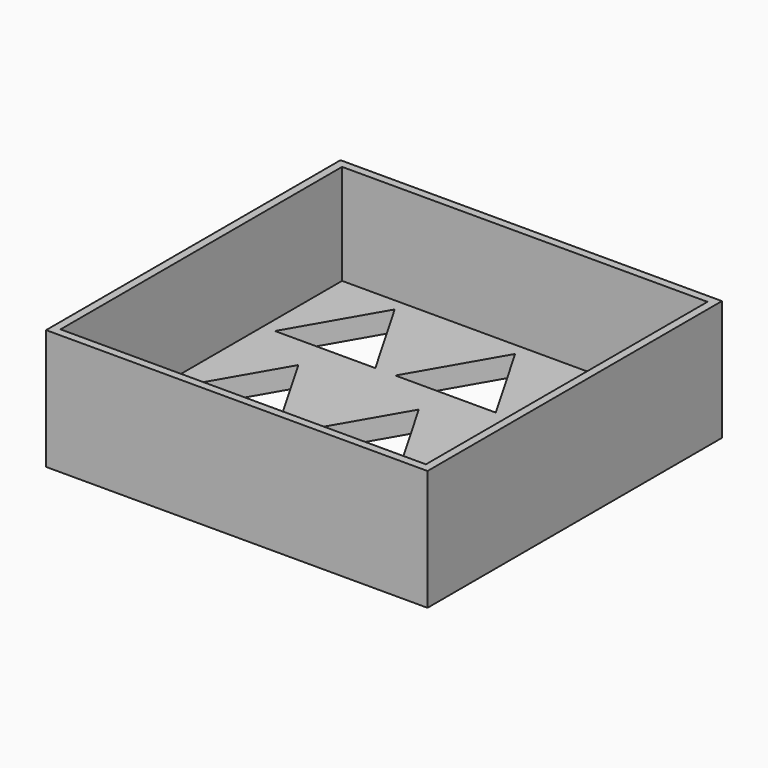
from build123d import *

# Parameters (mm, degrees)
F0_W     = 95
F0_H     = 91.650635
F1_DEPTH = 5
F2_W     = 95
F2_H     = 91.650635
F2_W_2   = 91
F2_H_2   = 87.650635
F3_DEPTH = 25


with BuildPart() as f1:
    # F0 (on Top) → F1 (new body)
    with BuildSketch(Plane.XY):
        with Locations((17.5, 40.825317)):
            Rectangle(F0_W, F0_H)
        Polygon((-25, 0), (-12.5, 21.650635), (0, 0), align=None, mode=Mode.SUBTRACT)
        Polygon((30, 0), (5, 0), (17.5, 21.650635), align=None, mode=Mode.SUBTRACT)
        Polygon((60, 0), (35, 0), (47.5, 21.650635), align=None, mode=Mode.SUBTRACT)
        Polygon((30, 30), (5, 30), (17.5, 51.650635), align=None, mode=Mode.SUBTRACT)
        Polygon((60, 30), (35, 30), (47.5, 51.650635), align=None, mode=Mode.SUBTRACT)
        Polygon((0, 30), (-25, 30), (-12.5, 51.650635), align=None, mode=Mode.SUBTRACT)
        Polygon((0, 60), (-25, 60), (-12.5, 81.650635), align=None, mode=Mode.SUBTRACT)
        Polygon((30, 60), (5, 60), (17.5, 81.650635), align=None, mode=Mode.SUBTRACT)
        Polygon((60, 60), (35, 60), (47.5, 81.650635), align=None, mode=Mode.SUBTRACT)
    extrude(amount=F1_DEPTH)

    # F2 (on face) → F3 (join)
    with BuildSketch(Plane.XY.offset(5)):
        with Locations((17.5, 40.825317)):
            Rectangle(F2_W, F2_H)
        with Locations((17.5, 40.825317)):
            Rectangle(F2_W_2, F2_H_2, mode=Mode.SUBTRACT)
    extrude(amount=F3_DEPTH)


solid = f1.part
